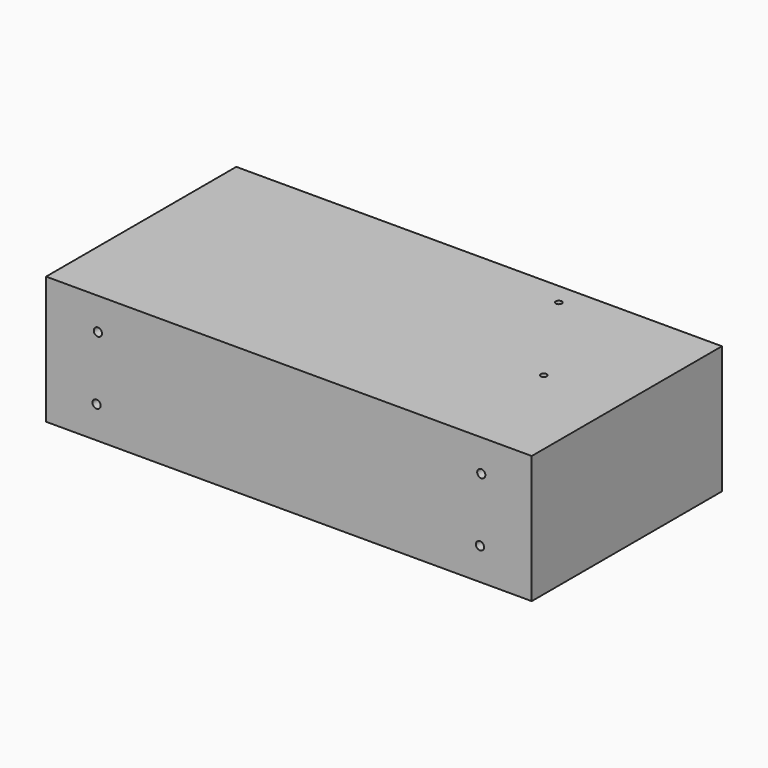
from build123d import *

# Parameters (mm, degrees)
F0_W     = 190
F0_H     = 50
F1_DEPTH = 93
F3_D     = 3.2
F3_DEPTH = 12.7
F3_TIP   = 0.9613769904
F5_D     = 3.2
F5_DEPTH = 12.7
F5_TIP   = 0.9613769904
F7_D     = 2.4


with BuildPart() as f1:
    # F0 (on Front) → F1 (new body)
    with BuildSketch(Plane.XZ):
        Rectangle(F0_W, F0_H)
    extrude(amount=F1_DEPTH)

    # F3
    with Locations(Plane.XZ.offset(93)):
        with Locations((-74.75, 12.5), (75.25, 12.5), (74.75, -12.5), (-75.25, -12.5)):
            Hole(F3_D / 2, depth=F3_DEPTH)
            with Locations((0, 0, -(F3_DEPTH + F3_TIP / 2))):  # 118° drill point
                Cone(0, F3_D / 2, F3_TIP, mode=Mode.SUBTRACT)

    # F5
    with Locations(Plane(origin=(0, 0, 0), x_dir=(-1, 0, 0), z_dir=(0, 1, 0))):
        with Locations((-75.25, 12.5), (74.75, 12.5), (75.25, -12.5), (-74.75, -12.5)):
            Hole(F5_D / 2, depth=F5_DEPTH)
            with Locations((0, 0, -(F5_DEPTH + F5_TIP / 2))):  # 118° drill point
                Cone(0, F5_D / 2, F5_TIP, mode=Mode.SUBTRACT)

    # F7 (through all)
    with Locations(Plane.XY.offset(25)):
        with Locations((38, -8.5), (64.5, -49)):
            Hole(F7_D / 2)


solid = f1.part
